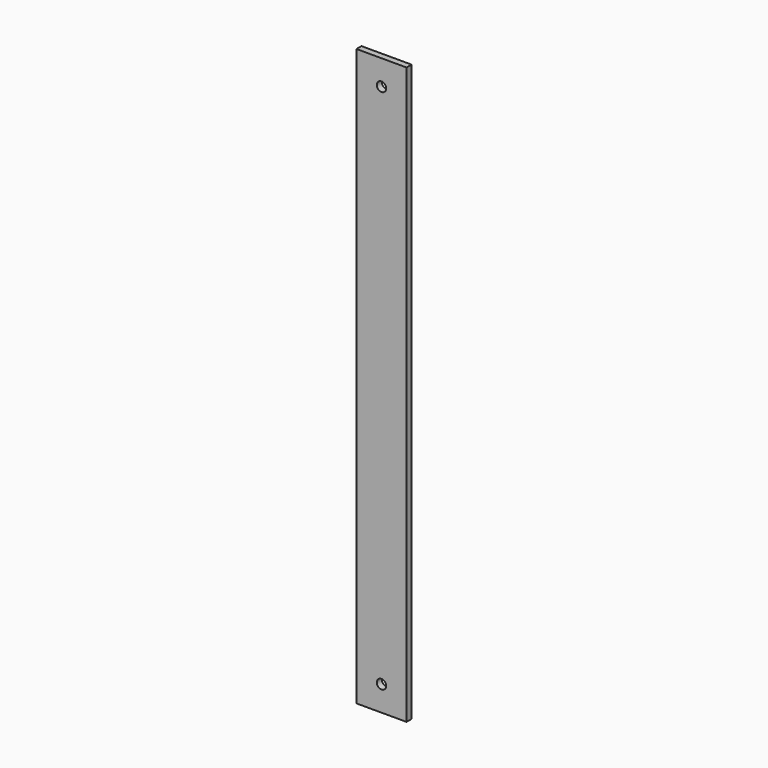
from build123d import *

# Parameters (mm, degrees)
F0_W     = 6.35
F0_H     = 584.2
F1_DEPTH = 25.4
F2_R     = 4.7625
F3_DEPTH = 6.351


with BuildPart() as f1:
    # F0 (on Right) → F1 (new body, symmetric)
    with BuildSketch(Plane.YZ):
        with Locations((-33.058052, 45.262264)):
            Rectangle(F0_W, F0_H)
    extrude(amount=F1_DEPTH, both=True)

    # F2 (on face) → F3 (cut, through all)
    with BuildSketch(Plane.XZ.offset(36.233052)):
        with Locations((0, 311.962264)):
            Circle(F2_R)
        with Locations((0, -221.437736)):
            Circle(F2_R)
    extrude(amount=-F3_DEPTH, mode=Mode.SUBTRACT)


solid = f1.part
